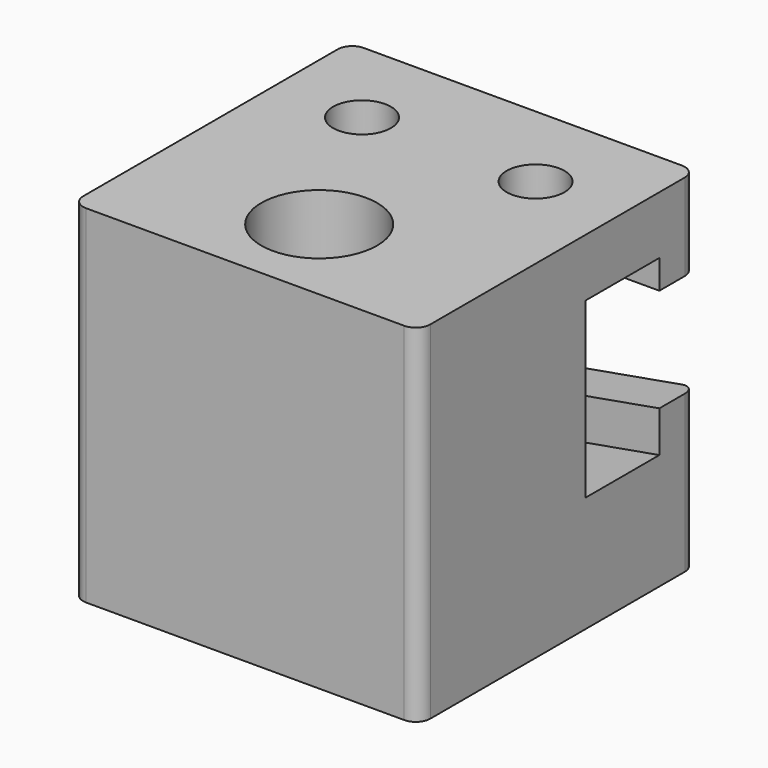
from build123d import *

# Parameters (mm, degrees)
F0_W      = 3
F0_H      = 3
F1_DEPTH  = 3
F2_R      = 0.5
F3_DEPTH  = 25
F6_DEPTH  = 0.8
F8_DEPTH  = 1.05
F9_R      = 0.125
F10_R     = 0.125
F11_R     = 0.25
F12_DEPTH = 25


with BuildPart() as f1:
    # F0 (on Top) → F1 (new body)
    with BuildSketch(Plane.XY):
        Rectangle(F0_W, F0_H)
    extrude(amount=F1_DEPTH)

    # F2 (on face) → F3 (cut)
    with BuildSketch(Plane.XY.offset(3)):
        with Locations((0, -0.7)):
            Circle(F2_R)
    extrude(amount=-F3_DEPTH, mode=Mode.SUBTRACT)

    # F5 (on offset) → F6 (cut)
    with BuildSketch(Plane(origin=(0, 1.1, 0), x_dir=(-1, 0, 0), z_dir=(0, 1, 0))):
        Polygon((-1.5, 2.5), (-1.5, 1), (1.5, 0.4710190579), (1.5, 2.5), align=None)
    extrude(amount=-F6_DEPTH, mode=Mode.SUBTRACT)

    # F7 (on offset) → F8 (cut)
    with BuildSketch(Plane(origin=(0, 1.1, 0), x_dir=(-1, 0, 0), z_dir=(0, 1, 0))):
        Polygon((-1.5, 2.25), (-1.5, 1.3553993142), (1.5, 0.826418372), (1.5, 2.25), align=None)
    extrude(amount=F8_DEPTH, mode=Mode.SUBTRACT)

    # F9
    f9_edges = [f1.edges().sort_by_distance(p)[0] for p in [
        (1.5, 1.5, 0.6777),
        (1.5, 1.5, 2.625),
    ]]
    fillet(f9_edges, radius=F9_R)

    # F10
    f10_edges = [f1.edges().sort_by_distance(p)[0] for p in [
        (-1.5, 1.5, 2.625),
        (-1.5, 1.5, 0.413209),
        (-1.5, -1.5, 1.5),
        (1.5, -1.5, 1.5),
    ]]
    fillet(f10_edges, radius=F10_R)

    # F11 (on face) → F12 (cut)
    with BuildSketch(Plane.XY.offset(3)):
        with Locations((0.75, 0.7)):
            Circle(F11_R)
        with Locations((-0.75, 0.7)):
            Circle(F11_R)
    extrude(amount=-F12_DEPTH, mode=Mode.SUBTRACT)


solid = f1.part
